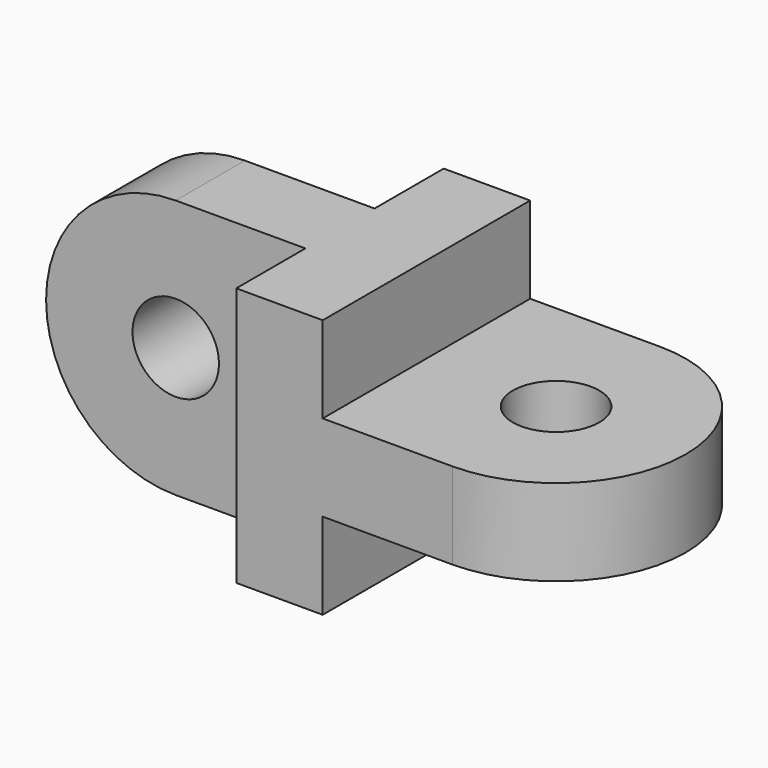
from build123d import *

# Parameters (mm, degrees)
F0_W     = 20
F0_H     = 60
F1_DEPTH = 30
F0_R     = 10
F2_DEPTH = 10
F3_R     = 10
F4_DEPTH = 10


with BuildPart() as f1:
    # F0 (on Front) → F1 (new body, symmetric)
    with BuildSketch(Plane.XZ):
        with Locations((10, 0)):
            Rectangle(F0_W, F0_H)
    extrude(amount=F1_DEPTH, both=True)

    # F0 (on Front) → F2 (join, symmetric)
    with BuildSketch(Plane.XZ):
        with BuildLine():
            Line((0, -30), (0, 30))
            Line((0, 30), (-30, 30))
            ThreePointArc((-30, 30), (-60, 0), (-30, -30))
            Line((-30, -30), (0, -30))
        make_face()
        with Locations((-30, 0)):
            Circle(F0_R, mode=Mode.SUBTRACT)
    extrude(amount=F2_DEPTH, both=True)

    # F3 (on Top) → F4 (join, symmetric)
    with BuildSketch(Plane.XY):
        with BuildLine():
            Line((20, 30), (20, -30))
            Line((20, -30), (50, -30))
            ThreePointArc((50, -30), (80, 0), (50, 30))
            Line((50, 30), (20, 30))
        make_face()
        with Locations((50, 0)):
            Circle(F3_R, mode=Mode.SUBTRACT)
    extrude(amount=F4_DEPTH, both=True)


solid = f1.part
